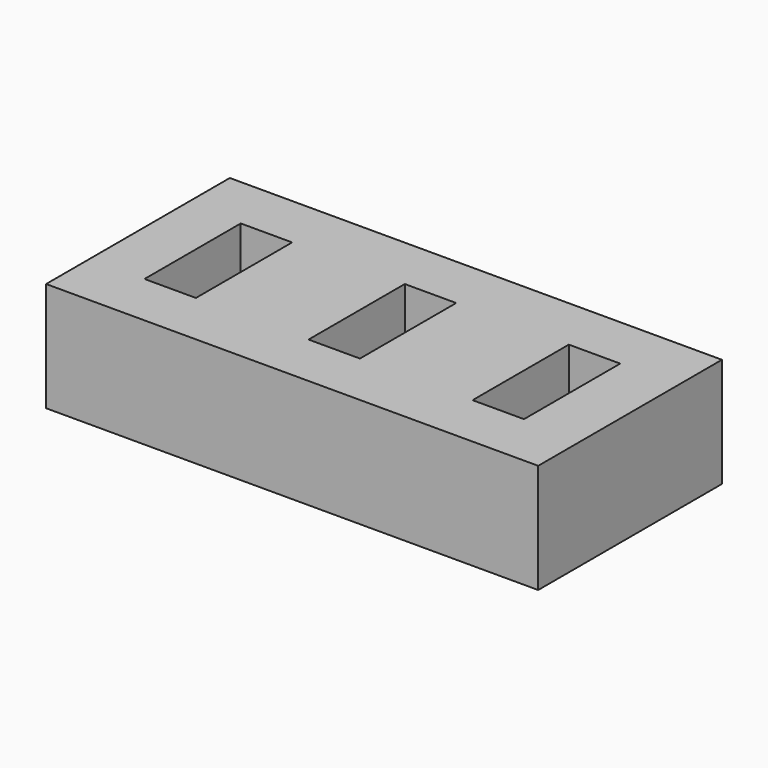
from build123d import *

# Parameters (mm, degrees)
BOX001_W     = 4.7
BOX001_H     = 11
BOX001_DEPTH = 12
BOX002_W     = 4.7
BOX002_H     = 11
BOX002_DEPTH = 12
BOX_W        = 4.7
BOX_H        = 11
BOX_DEPTH    = 12
BOX003_W     = 45
BOX003_H     = 21
BOX003_DEPTH = 10


with BuildPart() as box001:
    # Box001 → Box001 (new body)
    with BuildSketch(Plane(origin=(15, 0, 0), x_dir=(1, 0, 0), z_dir=(0, 0, 1))):
        with Locations((2.35, 5.5)):
            Rectangle(BOX001_W, BOX001_H)
    extrude(amount=BOX001_DEPTH)


with BuildPart() as box002:
    # Box002 → Box002 (new body)
    with BuildSketch(Plane(origin=(30, 0, 0), x_dir=(1, 0, 0), z_dir=(0, 0, 1))):
        with Locations((2.35, 5.5)):
            Rectangle(BOX002_W, BOX002_H)
    extrude(amount=BOX002_DEPTH)


with BuildPart() as ranuras:
    # Box → Box (new body)
    with BuildSketch(Plane.XY):
        with Locations((2.35, 5.5)):
            Rectangle(BOX_W, BOX_H)
    extrude(amount=BOX_DEPTH)

    # Fusion: union Box001, Box002
    add(box001.part)
    add(box002.part)


with BuildPart() as ranuras_1:
    # Fusion placement: moved
    add(ranuras.part.moved(Location((5, 5, 3))))


with BuildPart() as porta_pendrives:
    # Box003 → Box003 (new body)
    with BuildSketch(Plane.XY):
        with Locations((22.5, 10.5)):
            Rectangle(BOX003_W, BOX003_H)
    extrude(amount=BOX003_DEPTH)

    # Cut: cut ranuras
    add(ranuras_1.part, mode=Mode.SUBTRACT)


solid = porta_pendrives.part
